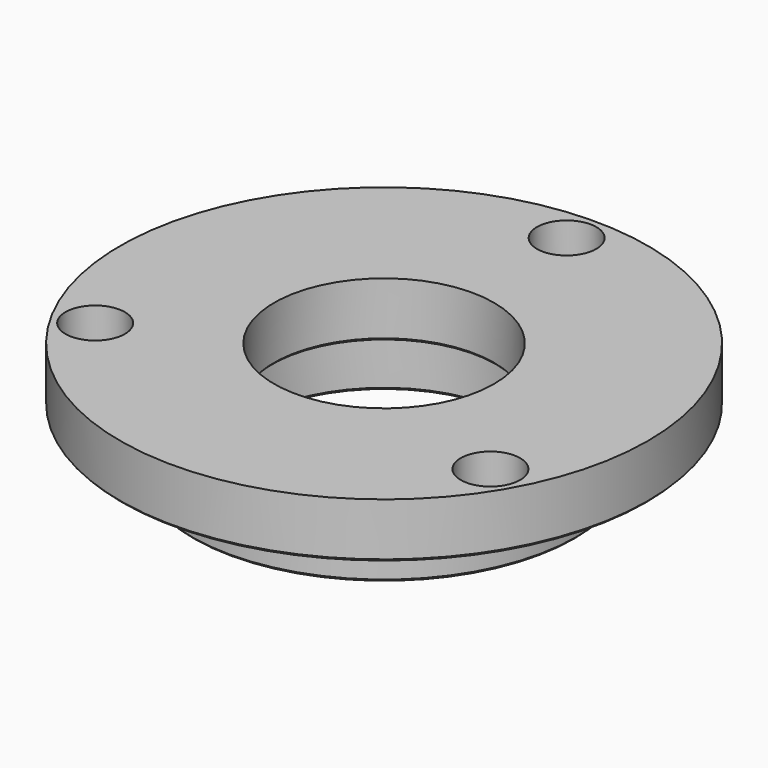
from build123d import *

# Parameters (mm, degrees)
F0_R     = 30.48
F0_R_2   = 12.7
F1_DEPTH = 6.35
F2_R     = 22.225
F2_R_2   = 15.24
F3_DEPTH = 6.35
F2_R_3   = 3.429
F4_DEPTH = 34.798
F5_SIZE  = 0.254


with BuildPart() as f1:
    # F0 (on Top) → F1 (new body)
    with BuildSketch(Plane.XY):
        Circle(F0_R)
        Circle(F0_R_2, mode=Mode.SUBTRACT)
    extrude(amount=F1_DEPTH)

    # F2 (on Top) → F3 (join)
    with BuildSketch(Plane.XY):
        Circle(F2_R)
        Circle(F2_R_2, mode=Mode.SUBTRACT)
    extrude(amount=-F3_DEPTH)

    # F2 (on Top) → F4 (cut)
    with BuildSketch(Plane.XY):
        with Locations((-22.821934, -13.17625)):
            Circle(F2_R_3)
        with Locations((0, 26.3525)):
            Circle(F2_R_3)
        with Locations((22.821934, -13.17625)):
            Circle(F2_R_3)
    extrude(amount=F4_DEPTH, mode=Mode.SUBTRACT)

    # F5
    f5_edges = [f1.edges().sort_by_distance(p)[0] for p in [
        (-30.48, 0, 0),
        (-22.225, 0, -6.35),
        (-15.24, 0, -6.35),
        (-12.7, 0, 0),
    ]]
    chamfer(f5_edges, length=F5_SIZE)


solid = f1.part
